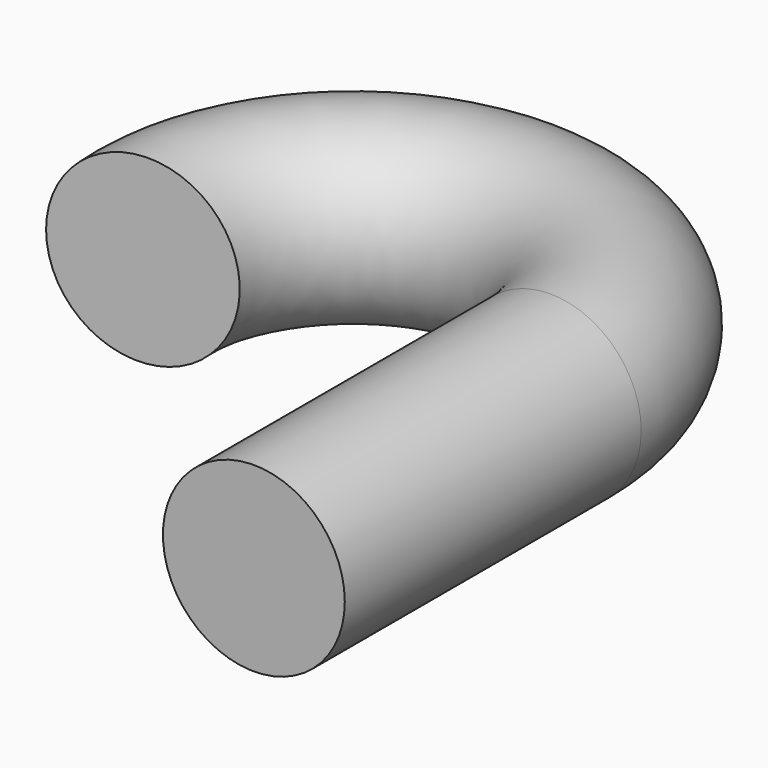
from build123d import *

# Parameters (mm, degrees)
F1_R = 8.4625


with BuildPart() as f2:
    # F2: sweep along a path in F0
    with BuildLine(Plane.XY) as f2_path:
        Line((0, 0), (0, 34.487069))
        ThreePointArc((0, 34.487069), (-19.150323, 52.831428), (-36.65483, 32.910518))
    # F1 (on Front) → F2 (sweep)
    with BuildSketch(Plane.XZ):
        Circle(F1_R)
    sweep(path=f2_path.line)


solid = f2.part
